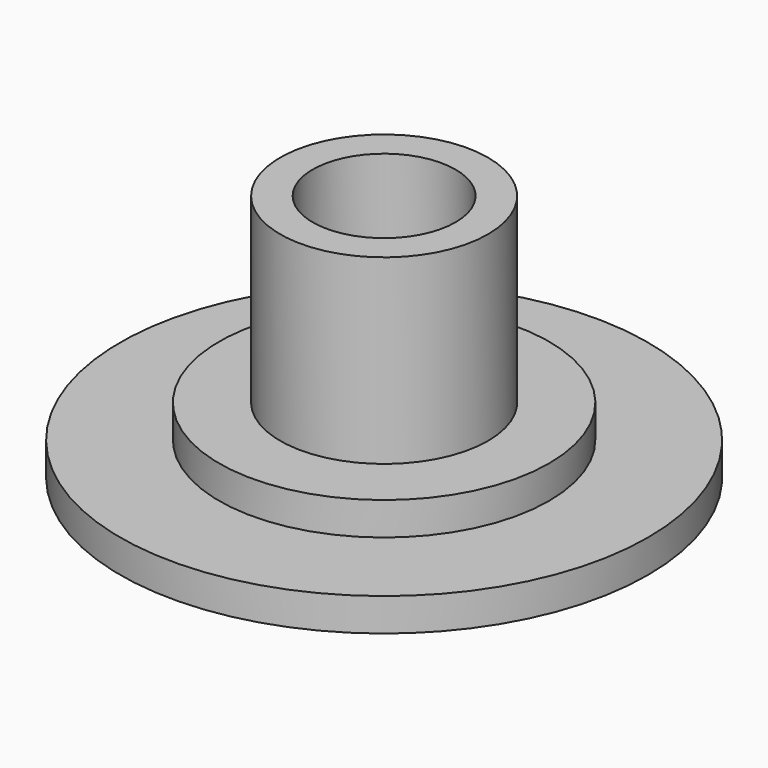
from build123d import *

# Parameters (mm, degrees)
F2_R     = 10.16
F2_R_2   = 6.35
F3_DEPTH = 1.27


with BuildPart() as f1:
    # F0 (on Front) → F1 (revolve)
    with BuildSketch(Plane.XZ):
        with BuildLine():
            Line((0, 2.54), (0, 0))
            Line((0, 0), (10.16, 0))
            Line((10.16, 0), (10.16, 2.54))
            Line((10.16, 2.54), (4, 2.54))
            Line((4, 2.54), (4, 9.54))
            Line((4, 9.54), (2.75, 9.54))
            Line((2.75, 9.54), (2.75, 5.564))
            ThreePointArc((2.75, 5.564), (3.181095, 4.802), (2.75, 4.04))
            Line((2.75, 4.04), (2.75, 2.54))
            Line((2.75, 2.54), (0, 2.54))
        make_face()
    revolve(axis=Axis((0, 0, 1.27), (0, 0, -1)))

    # F2 (on face) → F3 (cut)
    with BuildSketch(Plane.XY.offset(2.54)):
        Circle(F2_R)
        Circle(F2_R_2, mode=Mode.SUBTRACT)
    extrude(amount=-F3_DEPTH, mode=Mode.SUBTRACT)


solid = f1.part
